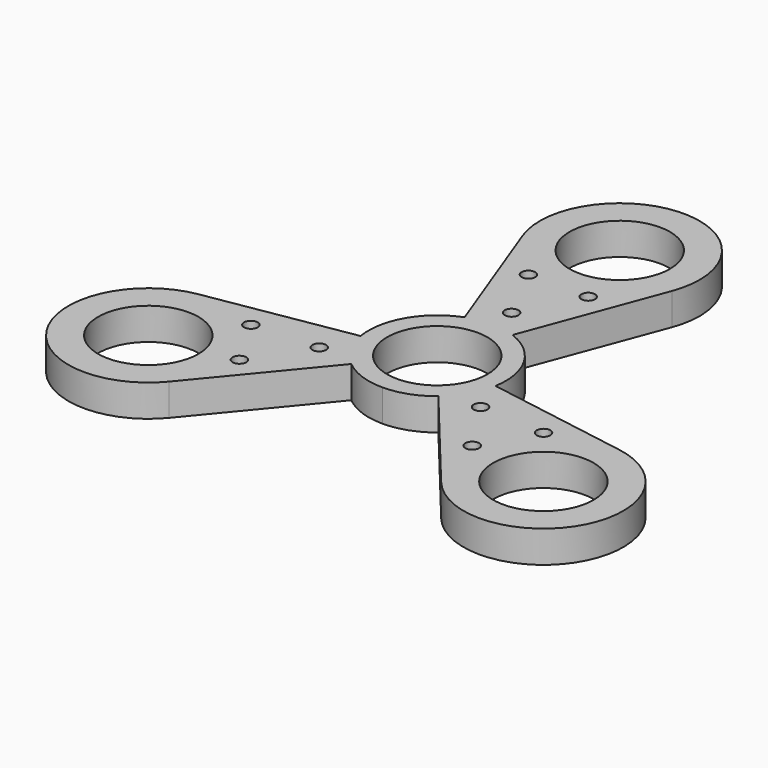
from build123d import *

# Parameters (mm, degrees)
F0_R     = 11
F0_R_2   = 1.5
F1_DEPTH = 7


with BuildPart() as f1:
    # F0 (on Top) → F1 (new body)
    with BuildSketch(Plane.XY):
        with BuildLine():
            Line((-16.379662, 43.88667), (-5.236542, 14.062915))
            ThreePointArc((-5.236542, 14.062915), (-9.677134, 11.46123), (-12.976923, 7.51167))
            ThreePointArc((-12.976923, 7.51167), (-14.764123, 2.679089), (-14.810571, -2.473169))
            Line((-14.810571, -2.473169), (-46.21026, -7.734822))
            ThreePointArc((-46.21026, -7.734822), (-58.47355, -33.74418), (-29.81714, -36.128538))
            Line((-29.81714, -36.128538), (-9.560571, -11.566436))
            ThreePointArc((-9.560571, -11.566436), (-5.07992, -14.127023), (0.003377, -15.01749))
            ThreePointArc((0.003377, -15.01749), (5.073691, -14.134569), (9.547113, -11.589746))
            Line((9.547113, -11.589746), (29.803682, -36.151848))
            ThreePointArc((29.803682, -36.151848), (58.460092, -33.76749), (46.196802, -7.758132))
            Line((46.196802, -7.758132), (14.797113, -2.496479))
            ThreePointArc((14.797113, -2.496479), (14.77432, 2.664172), (13.003839, 7.51167))
            ThreePointArc((13.003839, 7.51167), (9.70405, 11.46123), (5.263458, 14.062915))
            Line((5.263458, 14.062915), (16.406578, 43.88667))
            ThreePointArc((16.406578, 43.88667), (0.013458, 67.51167), (-16.379662, 43.88667))
        make_face()
        with Locations((-43.318105, -24.99418)):
            Circle(F0_R, mode=Mode.SUBTRACT)
        with Locations((-25.49547, -22.305525)):
            Circle(F0_R_2, mode=Mode.SUBTRACT)
        with Locations((-32.045816, -10.959994)):
            Circle(F0_R_2, mode=Mode.SUBTRACT)
        with Locations((-17.676041, -10.205267)):
            Circle(F0_R_2, mode=Mode.SUBTRACT)
        with Locations((25.514541, -22.272493)):
            Circle(F0_R_2, mode=Mode.SUBTRACT)
        with Locations((43.304647, -25.01749)):
            Circle(F0_R, mode=Mode.SUBTRACT)
        with Locations((17.676041, -10.205267)):
            Circle(F0_R_2, mode=Mode.SUBTRACT)
        with Locations((0.013458, 0.01167)):
            Circle(F0_R, mode=Mode.SUBTRACT)
        with Locations((32.064887, -10.926962)):
            Circle(F0_R_2, mode=Mode.SUBTRACT)
        with Locations((-6.569416, 33.232488)):
            Circle(F0_R_2, mode=Mode.SUBTRACT)
        with Locations((0, 20.410534)):
            Circle(F0_R_2, mode=Mode.SUBTRACT)
        with Locations((6.531274, 33.232488)):
            Circle(F0_R_2, mode=Mode.SUBTRACT)
        with Locations((0.013458, 50.01167)):
            Circle(F0_R, mode=Mode.SUBTRACT)
    extrude(amount=F1_DEPTH)


solid = f1.part
